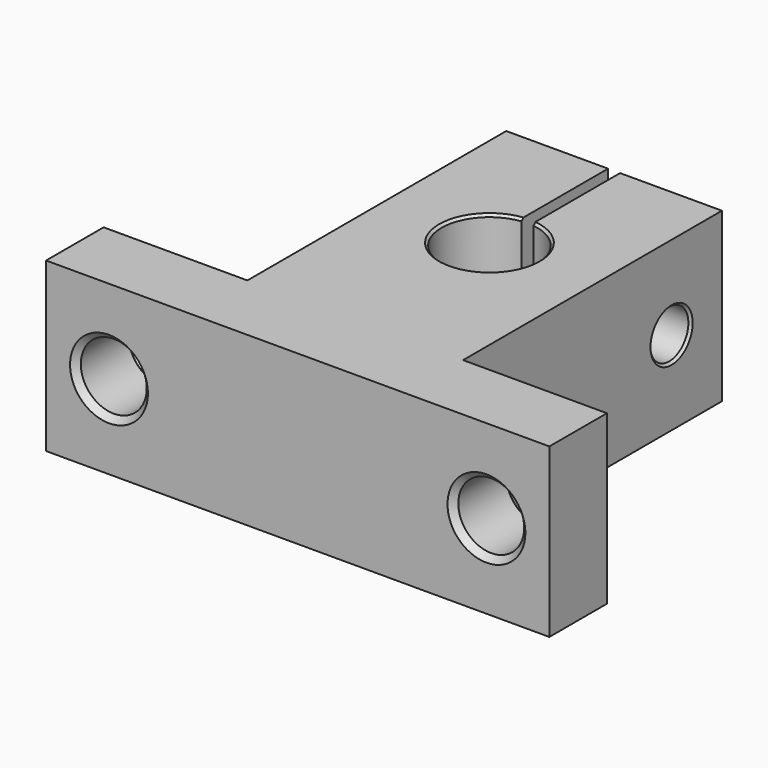
from build123d import *

# Parameters (mm, degrees)
CYLINDER004_R     = 3.5
CYLINDER004_DEPTH = 4.75
CYLINDER003_R     = 2
CYLINDER003_DEPTH = 18
CYLINDER_R        = 4
CYLINDER_DEPTH    = 14
BOX002_W          = 1
BOX002_H          = 10
BOX002_DEPTH      = 14
CYLINDER001_R     = 2.75
CYLINDER001_DEPTH = 6
CYLINDER002_R     = 2.75
CYLINDER002_DEPTH = 6
BOX001_W          = 42
BOX001_H          = 6
BOX001_DEPTH      = 14
BOX_W             = 18
BOX_H             = 27
BOX_DEPTH         = 14
CHAMFER_SIZE      = 0.5
CHAMFER001_SIZE   = 0.2


with BuildPart() as cylinder004:
    # Cylinder004 → Cylinder004 (new body)
    with BuildSketch(Plane(origin=(0, 21.75, 7), x_dir=(0, 0, -1), z_dir=(1, 0, 0))):
        Circle(CYLINDER004_R)
    extrude(amount=CYLINDER004_DEPTH)


with BuildPart() as cylinder003:
    # Cylinder003 → Cylinder003 (new body)
    with BuildSketch(Plane(origin=(0, 21.75, 7), x_dir=(0, 0, -1), z_dir=(1, 0, 0))):
        Circle(CYLINDER003_R)
    extrude(amount=CYLINDER003_DEPTH)


with BuildPart() as cylinder:
    # Cylinder → Cylinder (new body)
    with BuildSketch(Plane(origin=(9, 14, 0), x_dir=(1, 0, 0), z_dir=(0, 0, 1))):
        Circle(CYLINDER_R)
    extrude(amount=CYLINDER_DEPTH)


with BuildPart() as cube002:
    # Box002 → Box002 (new body)
    with BuildSketch(Plane(origin=(8.5, 17, 0), x_dir=(1, 0, 0), z_dir=(0, 0, 1))):
        with Locations((0.5, 5)):
            Rectangle(BOX002_W, BOX002_H)
    extrude(amount=BOX002_DEPTH)


with BuildPart() as cylinder001:
    # Cylinder001 → Cylinder001 (new body)
    with BuildSketch(Plane(origin=(24.75, 0, 7), x_dir=(1, 0, 0), z_dir=(0, -1, 0))):
        Circle(CYLINDER001_R)
    extrude(amount=CYLINDER001_DEPTH)


with BuildPart() as cylinder002:
    # Cylinder002 → Cylinder002 (new body)
    with BuildSketch(Plane(origin=(-6.75, 0, 7), x_dir=(1, 0, 0), z_dir=(0, -1, 0))):
        Circle(CYLINDER002_R)
    extrude(amount=CYLINDER002_DEPTH)


with BuildPart() as cube001:
    # Box001 → Box001 (new body)
    with BuildSketch(Plane(origin=(-12, -6, 0), x_dir=(1, 0, 0), z_dir=(0, 0, 1))):
        with Locations((21, 3)):
            Rectangle(BOX001_W, BOX001_H)
    extrude(amount=BOX001_DEPTH)


with BuildPart() as obj1:
    # Box → Box (new body)
    with BuildSketch(Plane.XY):
        with Locations((9, 13.5)):
            Rectangle(BOX_W, BOX_H)
    extrude(amount=BOX_DEPTH)

    # Fusion: union Cube001
    add(cube001.part)

    # Cut: cut Cylinder002
    add(cylinder002.part, mode=Mode.SUBTRACT)

    # Cut001: cut Cylinder001
    add(cylinder001.part, mode=Mode.SUBTRACT)

    # Cut002: cut Cube002
    add(cube002.part, mode=Mode.SUBTRACT)

    # Cut003: cut Cylinder
    add(cylinder.part, mode=Mode.SUBTRACT)

    # Cut004: cut Cylinder003
    add(cylinder003.part, mode=Mode.SUBTRACT)

    # Cut005: cut Cylinder004
    add(cylinder004.part, mode=Mode.SUBTRACT)

    # Chamfer
    chamfer_edges = [obj1.edges().sort_by_distance(p)[0] for p in [
        (0, 21.75, 10.5),
        (-9.5, 0, 7),
        (22, 0, 7),
        (-9.5, -6, 7),
        (22, -6, 7),
    ]]
    chamfer(chamfer_edges, length=CHAMFER_SIZE)

    # Chamfer001
    chamfer001_edges = [obj1.edges().sort_by_distance(p)[0] for p in [
        (6.354249, 11, 14),
        (12, 16.645751, 14),
        (6.354249, 11, 0),
        (12, 16.645751, 0),
        (18, 21.75, 9),
    ]]
    chamfer(chamfer001_edges, length=CHAMFER001_SIZE)


solid = obj1.part
